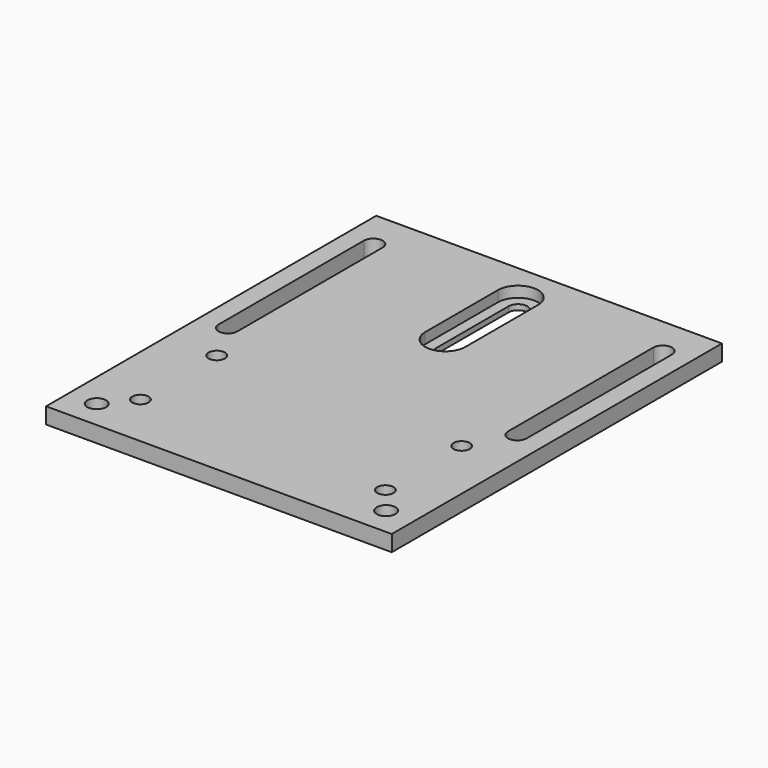
from build123d import *

# Parameters (mm, degrees)
F0_W     = 64.5
F0_H     = 77
F0_R     = 1.75
F0_R_2   = 1.52
F1_DEPTH = 3
F2_DEPTH = 1


with BuildPart() as f1:
    # F0 (on Top) → F1 (new body)
    with BuildSketch(Plane.XY):
        with Locations((32.25, 38.5)):
            Rectangle(F0_W, F0_H)
        with Locations((5.25, 5.25)):
            Circle(F0_R, mode=Mode.SUBTRACT)
        with Locations((9.4, 10.25)):
            Circle(F0_R_2, mode=Mode.SUBTRACT)
        with Locations((9.4, 28.05)):
            Circle(F0_R_2, mode=Mode.SUBTRACT)
        with Locations((59.25, 5.25)):
            Circle(F0_R, mode=Mode.SUBTRACT)
        with Locations((55.1, 10.25)):
            Circle(F0_R_2, mode=Mode.SUBTRACT)
        with Locations((55.1, 28.05)):
            Circle(F0_R_2, mode=Mode.SUBTRACT)
        with BuildLine():
            ThreePointArc((7, 35.85), (5.25, 34.1), (3.5, 35.85))
            Line((3.5, 35.85), (3.5, 69.75))
            ThreePointArc((3.5, 69.75), (5.25, 71.5), (7, 69.75))
            Line((7, 69.75), (7, 35.85))
        make_face(mode=Mode.SUBTRACT)
        with BuildLine():
            Line((61, 69.75), (61, 35.85))
            ThreePointArc((61, 35.85), (59.25, 34.1), (57.5, 35.85))
            Line((57.5, 35.85), (57.5, 69.75))
            ThreePointArc((57.5, 69.75), (59.25, 71.5), (61, 69.75))
        make_face(mode=Mode.SUBTRACT)
        with BuildLine():
            Line((36, 69.75), (36, 52.8))
            ThreePointArc((36, 52.8), (32.25, 49.05), (28.5, 52.8))
            Line((28.5, 52.8), (28.5, 69.75))
            ThreePointArc((28.5, 69.75), (32.25, 73.5), (36, 69.75))
        make_face(mode=Mode.SUBTRACT)
    extrude(amount=F1_DEPTH)

    # F0 (on Top) → F2 (join)
    with BuildSketch(Plane.XY):
        with BuildLine():
            ThreePointArc((28.5, 52.8), (32.25, 49.05), (36, 52.8))
            Line((36, 52.8), (36, 69.75))
            ThreePointArc((36, 69.75), (32.25, 73.5), (28.5, 69.75))
            Line((28.5, 69.75), (28.5, 52.8))
        make_face()
        with BuildLine():
            ThreePointArc((30.5, 69.75), (32.25, 71.5), (34, 69.75))
            Line((34, 69.75), (34, 52.8))
            ThreePointArc((34, 52.8), (32.25, 51.05), (30.5, 52.8))
            Line((30.5, 52.8), (30.5, 69.75))
        make_face(mode=Mode.SUBTRACT)
    extrude(amount=F2_DEPTH)


solid = f1.part
